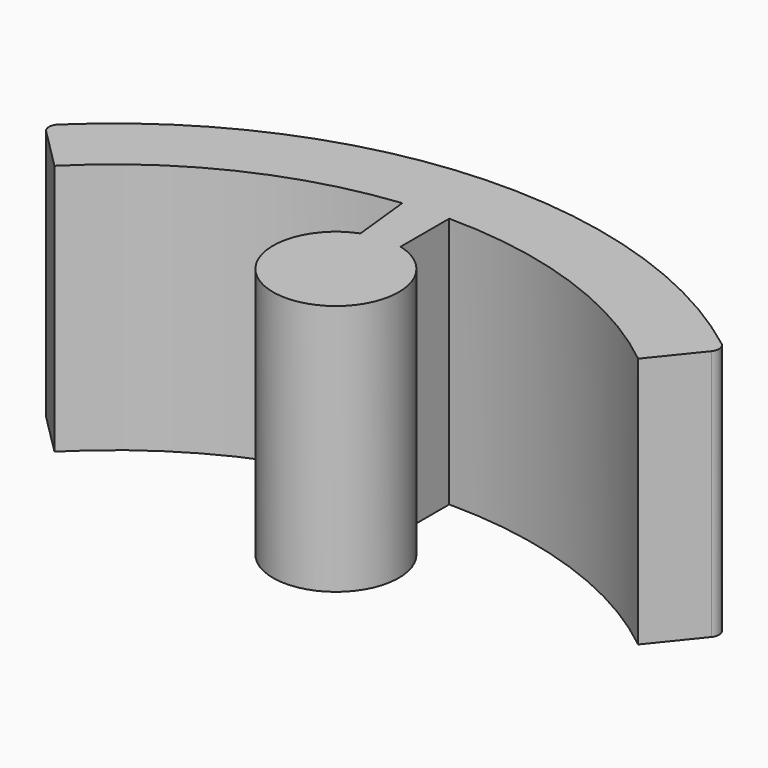
from build123d import *

# Parameters (mm, degrees)
F1_DEPTH = 6


with BuildPart() as f1:
    # F0 (on Top) → F1 (new body)
    with BuildSketch(Plane.XY):
        with BuildLine():
            ThreePointArc((-8.05516, 8.416466), (-8.132287, 8.238597), (-8.059079, 8.059079))
            Line((-8.059079, 8.059079), (-7.071068, 7.071068))
            ThreePointArc((-7.071068, 7.071068), (-4.31807, 9.01966), (-1.073848, 9.942175))
            Line((-1.073848, 9.942175), (-0.918199, 8.50111))
            ThreePointArc((-0.918199, 8.50111), (-0.301868, 5.602173), (-0.000613, 8.550553))
            Line((-0.000613, 8.550553), (-0.000613, 10))
            ThreePointArc((-0.000613, 10), (3.325891, 9.430718), (6.273586, 7.787305))
            Line((6.273586, 7.787305), (7.150168, 8.875393))
            ThreePointArc((7.150168, 8.875393), (7.203741, 9.061715), (7.108018, 9.230308))
            ThreePointArc((7.108018, 9.230308), (3.875, 10.986668), (0.255482, 11.647198))
            ThreePointArc((0.255482, 11.647198), (-4.221155, 10.858377), (-8.05516, 8.416466))
        make_face()
    extrude(amount=F1_DEPTH)


solid = f1.part
